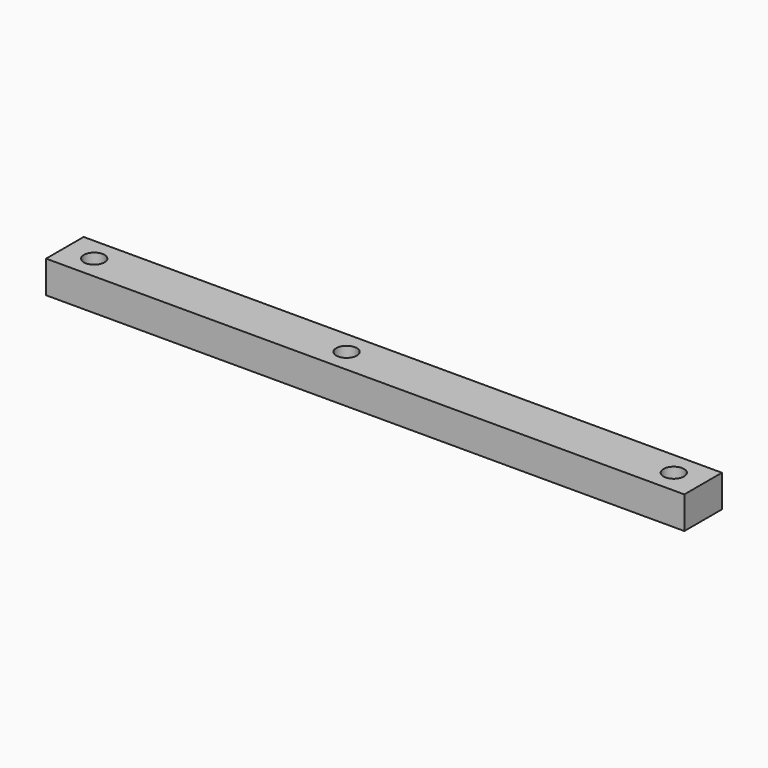
from build123d import *

# Parameters (mm, degrees)
SKETCH001_W  = 108.75
SKETCH001_H  = 8
PAD_DEPTH    = 5.5
SKETCH_R     = 1.75
POCKET_DEPTH = 10


with BuildPart() as part:
    # Sketch001 → Pad (new body)
    with BuildSketch(Plane.XY):
        with Locations((54.375, 4)):
            Rectangle(SKETCH001_W, SKETCH001_H)
    extrude(amount=PAD_DEPTH)

    # Sketch (on Face6 of Pad) → Pocket (cut)
    with BuildSketch(Plane.XY.offset(5.5)):
        with Locations((5, 4)):
            Circle(SKETCH_R)
        with Locations((48, 4)):
            Circle(SKETCH_R)
        with Locations((103.75, 4)):
            Circle(SKETCH_R)
    extrude(amount=-POCKET_DEPTH, mode=Mode.SUBTRACT)


solid = part.part
